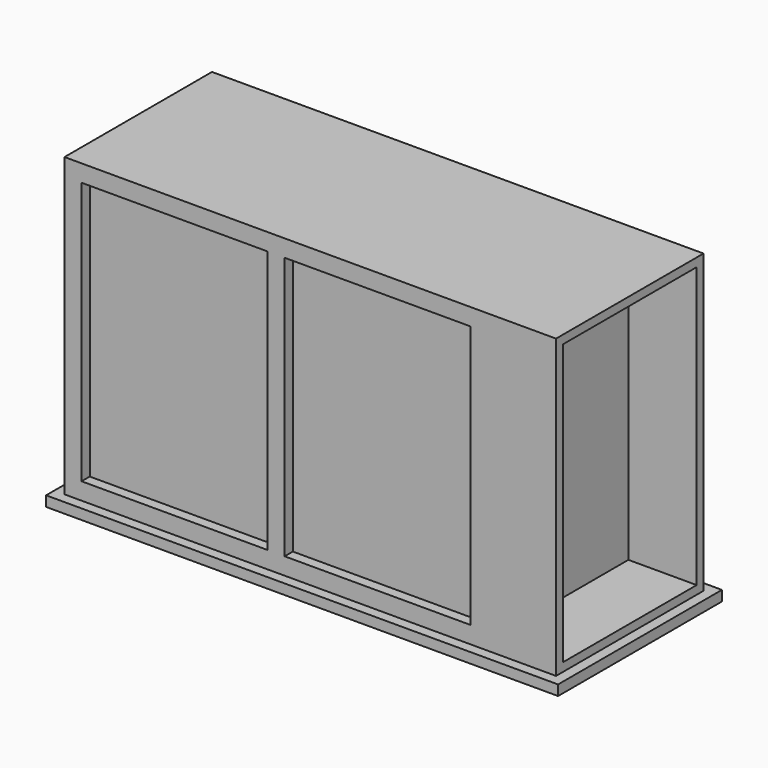
from build123d import *

# Parameters (mm, degrees)
F0_W     = 1500
F0_H     = 600
F1_DEPTH = 30
F2_W     = 1439.999984
F2_H     = 539.999984
F3_DEPTH = 870
F4_W     = 489.999984
F4_H     = 820
F5_DEPTH = 200
F6_W     = 544.999992
F6_H     = 770
F7_DEPTH = 30


with BuildPart() as f1:
    # F0 (on Top) → F1 (new body)
    with BuildSketch(Plane.XY):
        with Locations((-151.399113, -245.669692)):
            Rectangle(F0_W, F0_H)
    extrude(amount=F1_DEPTH)


with BuildPart() as f3:
    # F2 (on face) → F3 (new body)
    with BuildSketch(Plane.XY.offset(30)):
        with Locations((-151.399113, -245.669692)):
            Rectangle(F2_W, F2_H)
    extrude(amount=F3_DEPTH)

    # F4 (on face) → F5 (cut)
    with BuildSketch(Plane.YZ.offset(568.600879)):
        with Locations((-245.669692, 465)):
            Rectangle(F4_W, F4_H)
    extrude(amount=-F5_DEPTH, mode=Mode.SUBTRACT)

    # F6 (on face) → F7 (cut)
    with BuildSketch(Plane.XZ.offset(515.669684)):
        with Locations((46.100883, 465)):
            Rectangle(F6_W, F6_H)
        with Locations((-548.899109, 465)):
            Rectangle(F6_W, F6_H)
    extrude(amount=-F7_DEPTH, mode=Mode.SUBTRACT)


solid = Compound([f1.part, f3.part])
